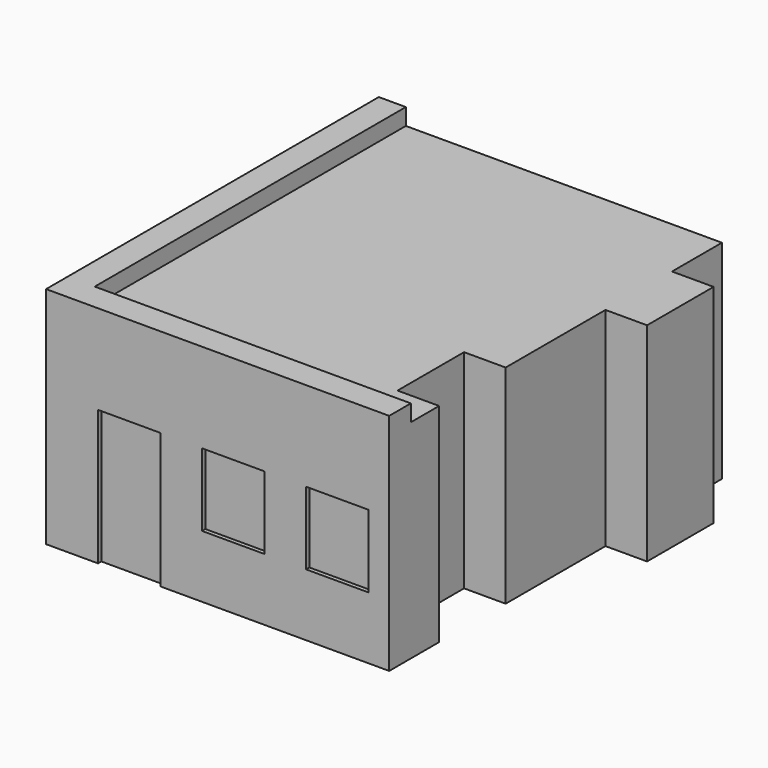
from build123d import *

# Parameters (mm, degrees)
F1_DEPTH = 100
F3_DEPTH = 3
F5_DEPTH = 8
F6_W     = 30
F6_H     = 35
F7_DEPTH = 2
F8_W     = 30
F8_H     = 35
F9_DEPTH = 2


with BuildPart() as f1:
    # F0 (on Top) → F1 (new body)
    with BuildSketch(Plane.XY):
        Polygon((-165, -100), (0, -100), (0, -70), (-20, -70), (-20, -30), (0, -30), (0, 30), (20, 30), (20, 70), (0, 70), (0, 100), (-165, 100), align=None)
        Polygon((-2.999997, -97.000003), (-162.000003, -97.000003), (-162.000003, 97.000003), (-2.999997, 97.000003), (-2.999997, 67.000003), (17.000003, 67.000003), (17.000003, 32.999997), (-2.999997, 32.999997), (-2.999997, -27.000003), (-22.999997, -27.000003), (-22.999997, -72.999997), (-2.999997, -72.999997), align=None, mode=Mode.SUBTRACT)
    extrude(amount=F1_DEPTH)

    # F2 (on face) → F3 (join)
    with BuildSketch(Plane.XY.offset(100)):
        Polygon((-165, 100), (-165, -100), (0, -100), (0, -70), (-20, -70), (-20, -30), (0, -30), (0, 30), (20, 30), (20, 70), (0, 70), (0, 100), align=None)
    extrude(amount=-F3_DEPTH)

    # F4 (on face) → F5 (join)
    with BuildSketch(Plane.XY.offset(100)):
        Polygon((-152, -100), (0, -100), (0, -87), (-152, -87), (-152, 100), (-165, 100), (-165, -100), (-162, -100), align=None)
    extrude(amount=F5_DEPTH)

    # F6 (on face) → F7 (cut)
    with BuildSketch(Plane.XZ.offset(100)):
        with Locations((-25, 47.5)):
            Rectangle(F6_W, F6_H)
        with Locations((-75, 47.5)):
            Rectangle(F6_W, F6_H)
        Polygon((-110, 30), (-110, 65), (-140, 65), (-140, 30), (-140, 0), (-110, 0), align=None)
    extrude(amount=-F7_DEPTH, mode=Mode.SUBTRACT)

    # F8 (on face) → F9 (cut)
    with BuildSketch(Plane(origin=(-165, 0, 0), x_dir=(0, -1, 0), z_dir=(-1, 0, 0))):
        Polygon((-15, 65), (-15, 30), (0, 30), (15, 30), (15, 65), align=None)
        with Locations((50, 47.5)):
            Rectangle(F8_W, F8_H)
        with Locations((-50, 47.5)):
            Rectangle(F8_W, F8_H)
    extrude(amount=-F9_DEPTH, mode=Mode.SUBTRACT)


solid = f1.part
